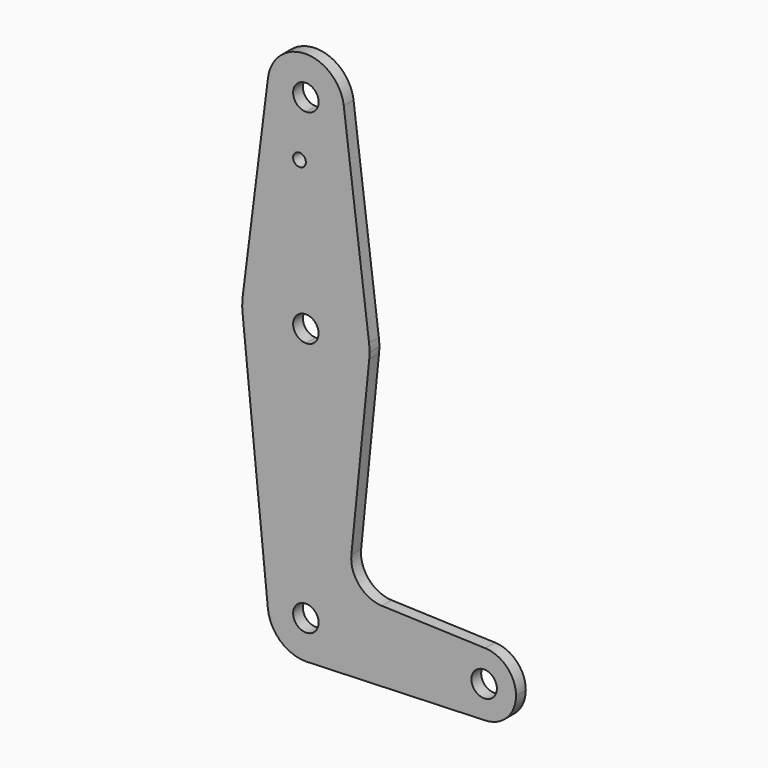
from build123d import *

# Parameters (mm, degrees)
F0_R     = 1.5875
F0_R_2   = 3.175
F1_DEPTH = 3.048


with BuildPart() as f1:
    # F0 (on Front) → F1 (new body)
    with BuildSketch(Plane.XZ):
        with BuildLine():
            ThreePointArc((9.525, 0), (6.7351920908, 6.7351920908), (0, 9.525))
            ThreePointArc((0, 9.525), (-7.063929059, 6.3895642457), (-9.4772553384, -0.9525))
            ThreePointArc((-9.4772553384, -0.9525), (-6.3895642457, -7.063929059), (0, -9.525))
            Line((0, -9.525), (0.6773435479, -9.500885786))
            ThreePointArc((0.6773435479, -9.500885786), (6.9705567315, -6.4912990883), (9.525, 0))
        make_face()
        with BuildLine():
            ThreePointArc((3.175, 0), (-2.2450640303, -2.2450640303), (0, 3.175))
            ThreePointArc((0, 3.175), (2.2450640303, 2.2450640303), (3.175, 0))
        make_face(mode=Mode.SUBTRACT)
        with BuildLine():
            ThreePointArc((-9.4772553384, -0.9525), (-7.063929059, 6.3895642457), (0, 9.525))
            Line((0, 9.525), (0, 47.625))
            ThreePointArc((0, 47.625), (-10.6492737428, 51.7267849017), (-15.7954255641, 61.9125))
            Line((-15.7954255641, 61.9125), (-9.4772553384, -0.9525))
        make_face()
        with BuildLine():
            Line((0, 47.625), (0, 9.525))
            ThreePointArc((0, 9.525), (6.7351920908, 6.7351920908), (9.525, 0))
            ThreePointArc((9.525, 0), (6.9705567315, -6.4912990883), (0.6773435479, -9.500885786))
            Line((0.6773435479, -9.500885786), (44.7324052746, -7.9324746146))
            ThreePointArc((44.7324052746, -7.9324746146), (36.5125, 0), (44.7324052746, 7.9324746146))
            Line((44.7324052746, 7.9324746146), (18.968327868, 8.8497055806))
            ThreePointArc((18.968327868, 8.8497055806), (13.2612039825, 11.5674628959), (11.3408358685, 17.5898921545))
            Line((11.3408358685, 17.5898921545), (15.7954255641, 61.9125))
            ThreePointArc((15.7954255641, 61.9125), (10.6492737428, 51.7267849017), (0, 47.625))
        make_face()
        with BuildLine():
            ThreePointArc((-15.7954255641, 61.9125), (-10.6492737428, 51.7267849017), (0, 47.625))
            Line((0, 47.625), (0, 60.325))
            ThreePointArc((0, 60.325), (-3.175, 63.5), (0, 66.675))
            Line((0, 66.675), (0, 79.375))
            ThreePointArc((0, 79.375), (-10.5003255158, 75.40625), (-15.7504882737, 65.484375))
            ThreePointArc((-15.7504882737, 65.484375), (-15.8737438155, 63.6997054867), (-15.7954255641, 61.9125))
        make_face()
        with BuildLine():
            Line((0, 60.325), (0, 47.625))
            ThreePointArc((0, 47.625), (10.6492737428, 51.7267849017), (15.7954255641, 61.9125))
            ThreePointArc((15.7954255641, 61.9125), (15.8550939106, 62.7052534459), (15.875, 63.5))
            ThreePointArc((15.875, 63.5), (15.8438414904, 64.4941387366), (15.7504882737, 65.484375))
            ThreePointArc((15.7504882737, 65.484375), (10.5003255158, 75.40625), (0, 79.375))
            Line((0, 79.375), (0, 66.675))
            ThreePointArc((0, 66.675), (2.2450640303, 65.7450640303), (3.175, 63.5))
            ThreePointArc((3.175, 63.5), (2.2450640303, 61.2549359697), (0, 60.325))
        make_face()
        with BuildLine():
            ThreePointArc((0, -9.525), (0.3388863295, -9.5189695375), (0.6773435479, -9.500885786))
            Line((0.6773435479, -9.500885786), (0, -9.525))
        make_face()
        with BuildLine():
            Line((-9.4502929642, 115.490625), (-15.7504882737, 65.484375))
            ThreePointArc((-15.7504882737, 65.484375), (-10.5003255158, 75.40625), (0, 79.375))
            Line((0, 79.375), (0, 100.0575870275))
            Line((0, 100.0575870275), (0, 104.775))
            ThreePointArc((0, 104.775), (-7.14375, 107.9998046905), (-9.4502929642, 115.490625))
        make_face()
        with Locations((-1.5875, 100.0575870275)):
            Circle(F0_R, mode=Mode.SUBTRACT)
        with BuildLine():
            ThreePointArc((44.7324052746, 7.9324746146), (36.5125, 0), (44.7324052746, -7.9324746146))
            ThreePointArc((44.7324052746, -7.9324746146), (50.1616327839, -5.5119104847), (52.3875, 0))
            ThreePointArc((52.3875, 0), (50.1616327839, 5.5119104847), (44.7324052746, 7.9324746146))
        make_face()
        with Locations((44.45, 0)):
            Circle(F0_R_2, mode=Mode.SUBTRACT)
        with BuildLine():
            Line((0, 100.0575870275), (0, 79.375))
            ThreePointArc((0, 79.375), (10.5003255158, 75.40625), (15.7504882737, 65.484375))
            Line((15.7504882737, 65.484375), (9.4502929642, 115.490625))
            ThreePointArc((9.4502929642, 115.490625), (9.5063048942, 114.896483242), (9.525, 114.3))
            ThreePointArc((9.525, 114.3), (6.7351920908, 107.5648079092), (0, 104.775))
            Line((0, 104.775), (0, 100.0575870275))
        make_face()
        with BuildLine():
            ThreePointArc((9.4502929642, 115.490625), (0, 123.825), (-9.4502929642, 115.490625))
            ThreePointArc((-9.4502929642, 115.490625), (-7.14375, 107.9998046905), (0, 104.775))
            ThreePointArc((0, 104.775), (6.7351920908, 107.5648079092), (9.525, 114.3))
            ThreePointArc((9.525, 114.3), (9.5063048942, 114.896483242), (9.4502929642, 115.490625))
        make_face()
        with BuildLine():
            ThreePointArc((3.175, 114.3), (2.2450640303, 112.0549359697), (0, 111.125))
            ThreePointArc((0, 111.125), (-2.2450640303, 116.5450640303), (3.175, 114.3))
        make_face(mode=Mode.SUBTRACT)
    extrude(amount=F1_DEPTH)


solid = f1.part
